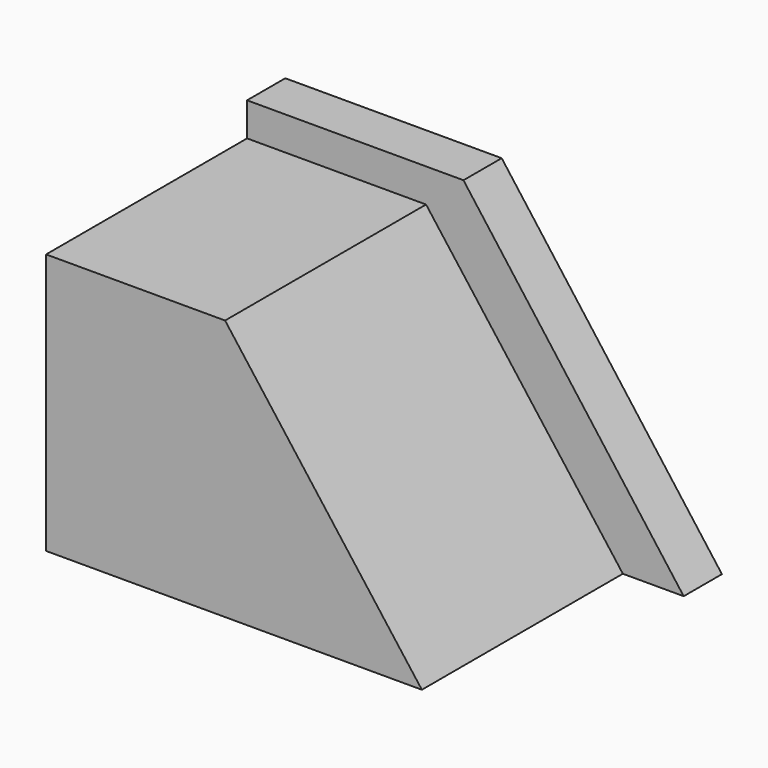
from build123d import *

# Parameters (mm, degrees)
F1_DEPTH = 36.068
F3_DEPTH = 6.858


with BuildPart() as f1:
    # F0 (on Front) → F1 (new body)
    with BuildSketch(Plane.XZ):
        Polygon((-25.696304, 37.479699), (-25.696304, 0), (28.251743, 0), (0, 37.479699), align=None)
    extrude(amount=F1_DEPTH)

    # F2 (on face) → F3 (join)
    with BuildSketch(Plane(origin=(0, 0, 0), x_dir=(-1, 0, 0), z_dir=(0, 1, 0))):
        Polygon((-36.98796, 0), (25.696304, 0), (25.696304, 42.294182), (-5.370659, 42.294182), align=None)
    extrude(amount=F3_DEPTH)


solid = f1.part
